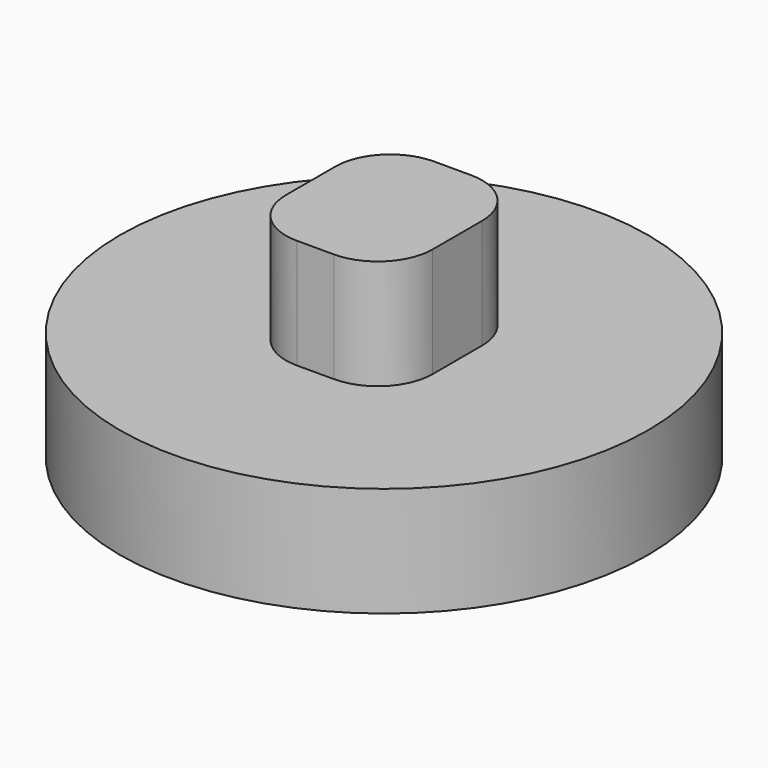
from build123d import *

# Parameters (mm, degrees)
F0_R     = 30.549193
F1_DEPTH = 12.7
F3_DEPTH = 12.7


with BuildPart() as f1:
    # F0 (on Top) → F1 (new body)
    with BuildSketch(Plane.XY):
        Circle(F0_R)
    extrude(amount=F1_DEPTH)

    # F2 (on face) → F3 (join)
    with BuildSketch(Plane.XY.offset(12.7)):
        with BuildLine():
            ThreePointArc((8.493408, 3.571891), (6.633536, 8.062019), (2.143408, 9.921891))
            Line((2.143408, 9.921891), (-2.143408, 9.921891))
            ThreePointArc((-2.143408, 9.921891), (-6.633536, 8.062019), (-8.493408, 3.571891))
            Line((-8.493408, 3.571891), (-8.493408, -3.571891))
            ThreePointArc((-8.493408, -3.571891), (-6.633536, -8.062019), (-2.143408, -9.921891))
            Line((-2.143408, -9.921891), (2.143408, -9.921891))
            ThreePointArc((2.143408, -9.921891), (6.633536, -8.062019), (8.493408, -3.571891))
            Line((8.493408, -3.571891), (8.493408, 3.571891))
        make_face()
    extrude(amount=F3_DEPTH)


solid = f1.part
